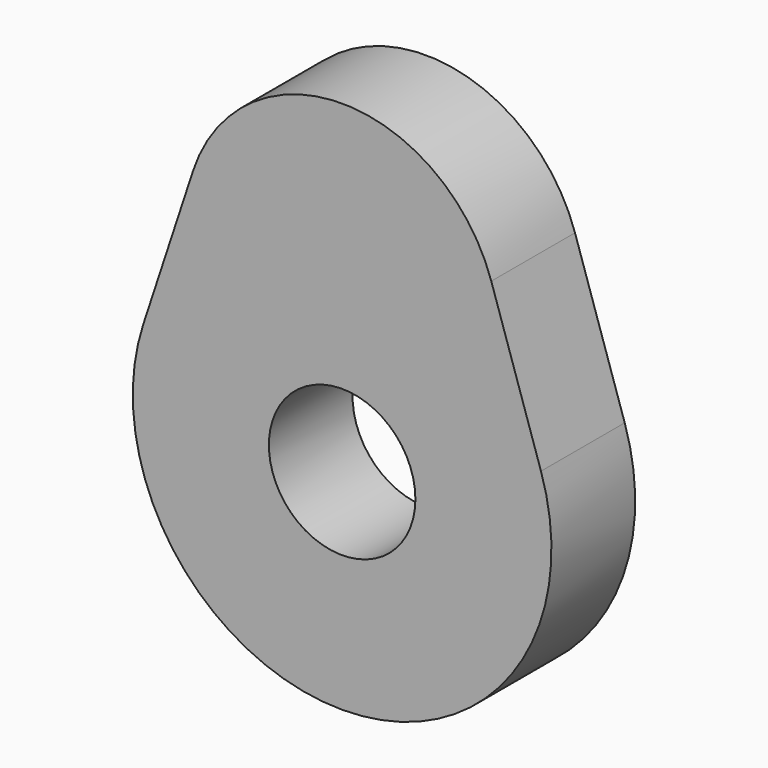
from build123d import *

# Parameters (mm, degrees)
F0_R     = 17.5
F1_DEPTH = 25


with BuildPart() as f1:
    # F0 (on Front) → F1 (new body)
    with BuildSketch(Plane.XZ):
        with BuildLine():
            Line((47.495888, 15.625), (35.621916, 51.71875))
            ThreePointArc((35.621916, 51.71875), (0, 77.5), (-35.621916, 51.71875))
            Line((-35.621916, 51.71875), (-47.495888, 15.625))
            ThreePointArc((-47.495888, 15.625), (0, -50), (47.495888, 15.625))
        make_face()
        Circle(F0_R, mode=Mode.SUBTRACT)
    extrude(amount=F1_DEPTH)


solid = f1.part
